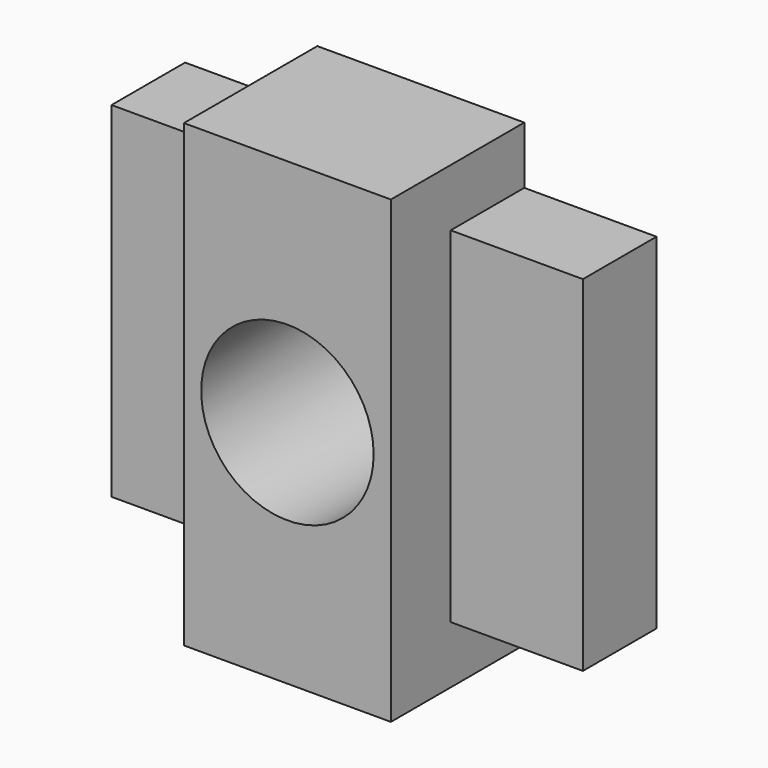
from build123d import *

# Parameters (mm, degrees)
F0_R     = 7.5
F1_DEPTH = 14.5
F0_W     = 11.5
F0_H     = 30
F2_DEPTH = 8


with BuildPart() as f1:
    # F0 (on Front) → F1 (new body)
    with BuildSketch(Plane.XZ):
        Polygon((9, -15), (9, 15), (9, 20), (-9, 20), (-9, 15), (-9, -15), (-9, -20), (9, -20), align=None)
        Circle(F0_R, mode=Mode.SUBTRACT)
    extrude(amount=F1_DEPTH)

    # F0 (on Front) → F2 (join)
    with BuildSketch(Plane.XZ):
        with Locations((-14.75, 0)):
            Rectangle(F0_W, F0_H)
        with Locations((14.75, 0)):
            Rectangle(F0_W, F0_H)
    extrude(amount=F2_DEPTH)


solid = f1.part
